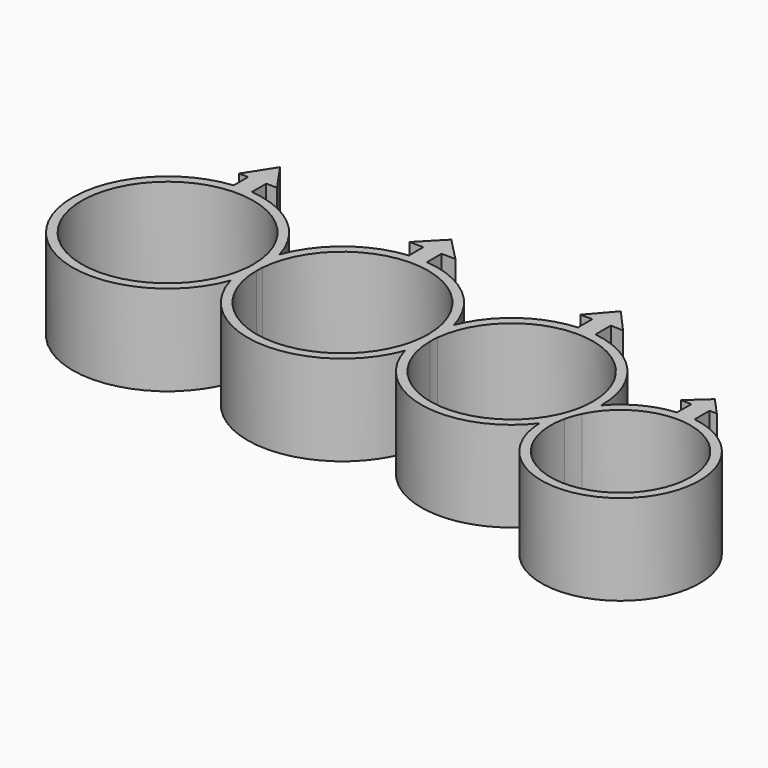
from build123d import *

# Parameters (mm, degrees)
F1_DEPTH = 10


with BuildPart() as f1:
    # F0 (on Top) → F1 (new body)
    with BuildSketch(Plane.XY):
        with BuildLine():
            ThreePointArc((-54.1309299153, 34.7543450507), (-54.1309291616, 34.7521602069), (-54.1309289103, 34.749975363))
            ThreePointArc((-54.1309289103, 34.749975363), (-54.1384443348, 34.3721704089), (-54.1609787174, 33.9949632158))
            ThreePointArc((-54.1609787174, 33.9949632158), (-54.0660685748, 32.5507467457), (-53.7734610387, 31.1333018692))
            ThreePointArc((-53.7734610387, 31.1333018692), (-53.3697669437, 32.5231940325), (-53.1610367081, 33.9553954277))
            ThreePointArc((-53.1610367081, 33.9553954277), (-53.1536089265, 34.335386944), (-53.130987906, 34.7147772626))
            ThreePointArc((-53.130987906, 34.7147772626), (-53.1309436593, 34.7323762881), (-53.1309289103, 34.749975363))
            ThreePointArc((-53.1309289103, 34.749975363), (-53.2282743232, 36.1764316505), (-53.5185055847, 37.5764386092))
            ThreePointArc((-53.5185055847, 37.5764386092), (-53.9221996797, 36.186546446), (-54.1309299153, 34.7543450507))
        make_face()
        with BuildLine():
            ThreePointArc((-54.1609787174, 33.9949632158), (-73.1235001238, 35.1255971916), (-54.1309299153, 34.7543450507))
            ThreePointArc((-54.1309299153, 34.7543450507), (-53.9221996797, 36.186546446), (-53.5185055847, 37.5764386092))
            ThreePointArc((-53.5185055847, 37.5764386092), (-56.911506833, 42.8183932343), (-62.6808702946, 45.2069055352))
            ThreePointArc((-62.6808702946, 45.2069055352), (-63.6810983438, 45.2498555065), (-64.6808702946, 45.1973493436))
            ThreePointArc((-64.6808702946, 45.1973493436), (-71.9280662809, 28.3151085071), (-53.7734610387, 31.1333018692))
            ThreePointArc((-53.7734610387, 31.1333018692), (-54.0660685748, 32.5507467457), (-54.1609787174, 33.9949632158))
        make_face()
        with BuildLine():
            ThreePointArc((-44.6742990635, 44.410760352), (-50.0813318555, 42.2681839255), (-53.5185055847, 37.5764386092))
            ThreePointArc((-53.5185055847, 37.5764386092), (-53.2282743232, 36.1764316505), (-53.1309289103, 34.749975363))
            ThreePointArc((-53.1309289103, 34.749975363), (-53.1309436593, 34.7323762881), (-53.130987906, 34.7147772626))
            ThreePointArc((-53.130987906, 34.7147772626), (-43.3064639701, 43.4531458336), (-34.1611515007, 34.0062619194))
            ThreePointArc((-34.1611515007, 34.0062619194), (-33.9326832198, 35.3653133694), (-33.5195358748, 36.6800482744))
            ThreePointArc((-33.5195358748, 36.6800482744), (-36.8853295304, 41.9809731681), (-42.6742990635, 44.4132978598))
            ThreePointArc((-42.6742990635, 44.4132978598), (-43.674359618, 44.4597566643), (-44.6742990635, 44.410760352))
        make_face()
        with BuildLine():
            ThreePointArc((-53.1610367081, 33.9553954277), (-53.3697669437, 32.5231940325), (-53.7734610387, 31.1333018692))
            ThreePointArc((-53.7734610387, 31.1333018692), (-44.1063222, 23.469211187), (-33.824501511, 30.2865437029))
            ThreePointArc((-33.824501511, 30.2865437029), (-34.1106339928, 31.63463376), (-34.2087077363, 33.0092610331))
            ThreePointArc((-34.2087077363, 33.0092610331), (-44.134704956, 24.4715809191), (-53.1610367081, 33.9553954277))
        make_face()
        with BuildLine():
            ThreePointArc((-64.6808702946, 45.1973493436), (-63.6810983438, 45.2498555065), (-62.6808702946, 45.2069055352))
            Line((-62.6808702946, 45.2069055352), (-62.6808702946, 47.1973493436))
            Line((-62.6808702946, 47.1973493436), (-64.6808702946, 47.1973493436))
            Line((-64.6808702946, 47.1973493436), (-64.6808702946, 45.1973493436))
        make_face()
        with BuildLine():
            Line((-44.6742990635, 46.4132978598), (-44.6742990635, 44.410760352))
            ThreePointArc((-44.6742990635, 44.410760352), (-43.674359618, 44.4597566643), (-42.6742990635, 44.4132978598))
            Line((-42.6742990635, 44.4132978598), (-42.6742990635, 46.4132978598))
            Line((-42.6742990635, 46.4132978598), (-44.6742990635, 46.4132978598))
        make_face()
        with BuildLine():
            ThreePointArc((-34.2087077363, 33.0092610331), (-34.1106339928, 31.63463376), (-33.824501511, 30.2865437029))
            ThreePointArc((-33.824501511, 30.2865437029), (-33.4286074238, 31.6044794904), (-33.2084686098, 32.962870366))
            ThreePointArc((-33.2084686098, 32.962870366), (-33.1985123089, 33.4607100698), (-33.1610380174, 33.9572371849))
            ThreePointArc((-33.1610380174, 33.9572371849), (-33.1610377891, 33.9585011501), (-33.1610377131, 33.9597651154))
            ThreePointArc((-33.1610377131, 33.9597651154), (-33.2510480564, 35.3316672071), (-33.5195358748, 36.6800482744))
            ThreePointArc((-33.5195358748, 36.6800482744), (-33.9326832198, 35.3653133694), (-34.1611515007, 34.0062619194))
            ThreePointArc((-34.1611515007, 34.0062619194), (-34.16106616, 33.983013587), (-34.1610377131, 33.9597651154))
            ThreePointArc((-34.1610377131, 33.9597651154), (-34.1729627034, 33.4839157586), (-34.2087077363, 33.0092610331))
        make_face()
        with BuildLine():
            ThreePointArc((-33.2084686098, 32.962870366), (-33.4286074238, 31.6044794904), (-33.824501511, 30.2865437029))
            ThreePointArc((-33.824501511, 30.2865437029), (-26.0789758688, 23.2083510142), (-16.2744258404, 26.9452986929))
            ThreePointArc((-16.2744258404, 26.9452986929), (-16.2359459807, 28.1016396023), (-16.0452382377, 29.242794962))
            ThreePointArc((-16.0452382377, 29.242794962), (-26.1151867885, 24.2361416337), (-33.2084686098, 32.962870366))
        make_face()
        Polygon((-64.6808702946, 47.1973493436), (-62.6808702946, 47.1973493436), (-61.4884868264, 47.1973493436), (-63.6808702946, 50.3516308963), (-65.7154172659, 47.1973493436), align=None)
        Polygon((-46.2027452886, 46.4132978598), (-44.6742990635, 46.4132978598), (-42.6742990635, 46.4132978598), (-41.1369259803, 46.4132978598), (-43.6742990635, 49.0165157606), align=None)
        with BuildLine():
            ThreePointArc((-16.0452382377, 29.242794962), (-16.2359459807, 28.1016396023), (-16.2744258404, 26.9452986929))
            ThreePointArc((-16.2744258404, 26.9452986929), (-15.6269720373, 27.8983504024), (-15.0934414581, 28.9195502405))
            ThreePointArc((-15.0934414581, 28.9195502405), (-14.849388288, 29.7780382301), (-14.5082524575, 30.6027745052))
            ThreePointArc((-14.5082524575, 30.6027745052), (-14.2932265185, 31.734705525), (-14.2098293285, 32.8838569062))
            ThreePointArc((-14.2098293285, 32.8838569062), (-14.8969732194, 31.9530302459), (-15.4552995863, 30.9396810138))
            ThreePointArc((-15.4552995863, 30.9396810138), (-15.7078230332, 30.0764812725), (-16.0452382377, 29.242794962))
        make_face()
        with BuildLine():
            ThreePointArc((-15.0934414581, 28.9195502405), (-15.6269720373, 27.8983504024), (-16.2744258404, 26.9452986929))
            ThreePointArc((-16.2744258404, 26.9452986929), (-7.3852443737, 18.4842744982), (1.2208400589, 27.2330908929))
            ThreePointArc((1.2208400589, 27.2330908929), (-0.9117259801, 32.9577802096), (-6.269918289, 35.8920059787))
            ThreePointArc((-6.269918289, 35.8920059787), (-7.268206978, 35.9791988017), (-8.269918289, 35.9516789134))
            ThreePointArc((-8.269918289, 35.9516789134), (-11.5444158949, 35.0074217082), (-14.2098293285, 32.8838569062))
            ThreePointArc((-14.2098293285, 32.8838569062), (-14.2932265185, 31.734705525), (-14.5082524575, 30.6027745052))
            ThreePointArc((-14.5082524575, 30.6027745052), (-5.8007888875, 34.7879061456), (0.2208400589, 27.2330908929))
            ThreePointArc((0.2208400589, 27.2330908929), (-8.3774871901, 19.5296604312), (-15.0934414581, 28.9195502405))
        make_face()
        with BuildLine():
            ThreePointArc((-24.8723683958, 43.0098591155), (-30.1154225727, 41.1010441317), (-33.5195358748, 36.6800482744))
            ThreePointArc((-33.5195358748, 36.6800482744), (-33.2510480564, 35.3316672071), (-33.1610377131, 33.9597651154))
            ThreePointArc((-33.1610377131, 33.9597651154), (-33.1610377891, 33.9585011501), (-33.1610380174, 33.9572371849))
            ThreePointArc((-33.1610380174, 33.9572371849), (-23.745452578, 42.0199722388), (-15.2087333715, 33.0319039866))
            ThreePointArc((-15.2087333715, 33.0319039866), (-15.2705874769, 31.9785531588), (-15.4552995863, 30.9396810138))
            ThreePointArc((-15.4552995863, 30.9396810138), (-14.8969732194, 31.9530302459), (-14.2098293285, 32.8838569062))
            ThreePointArc((-14.2098293285, 32.8838569062), (-14.2090073645, 32.9578784182), (-14.2087333715, 33.0319039866))
            ThreePointArc((-14.2087333715, 33.0319039866), (-16.6802799939, 39.6138785947), (-22.8732113197, 42.9423217805))
            ThreePointArc((-22.8732113197, 42.9423217805), (-23.8710969289, 43.0262024429), (-24.8723683958, 43.0098591155))
        make_face()
        with BuildLine():
            Line((-24.8723683958, 45.0098591155), (-24.8723683958, 43.0098591155))
            ThreePointArc((-24.8723683958, 43.0098591155), (-23.8710969289, 43.0262024429), (-22.8732113197, 42.9423217805))
            Line((-22.8732113197, 42.9423217805), (-22.8732113197, 45.0679193003))
            Line((-22.8732113197, 45.0679193003), (-24.8723683958, 45.0098591155))
        make_face()
        with BuildLine():
            ThreePointArc((-8.269918289, 35.9516789134), (-7.268206978, 35.9791988017), (-6.269918289, 35.8920059787))
            Line((-6.269918289, 35.8920059787), (-6.269918289, 37.9516789134))
            Line((-6.269918289, 37.9516789134), (-8.269918289, 37.9516789134))
            Line((-8.269918289, 37.9516789134), (-8.269918289, 35.9516789134))
        make_face()
        Polygon((-26.1985734105, 45.0098591155), (-24.8723683958, 45.0098591155), (-22.8732113197, 45.0679193003), (-21.4801449329, 45.0098591155), (-23.8727898577, 47.6949326694), align=None)
        Polygon((-8.269918289, 37.9516789134), (-6.269918289, 37.9516789134), (-5.4624893661, 37.9516789134), (-7.269918289, 39.9350486696), (-9.4463555142, 37.9516789134), align=None)
    extrude(amount=F1_DEPTH)


solid = f1.part
